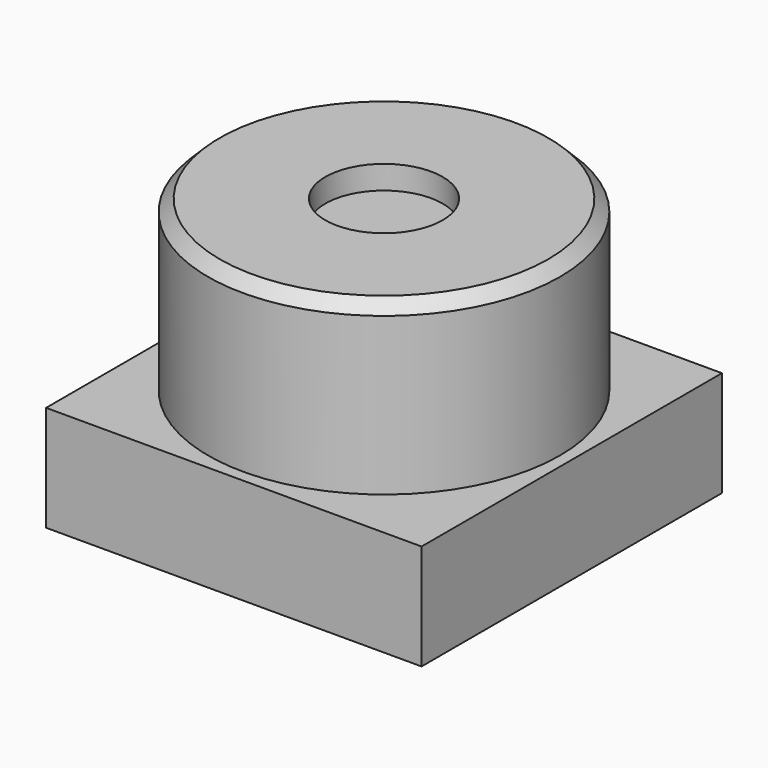
from build123d import *

# Parameters (mm, degrees)
SKETCH005_W     = 8
SKETCH005_H     = 8
PAD003_DEPTH    = 2.25
SKETCH006_R     = 3.75
PAD004_DEPTH    = 3.6
SKETCH007_R     = 1.25
POCKET001_DEPTH = 0.5
CHAMFER001_SIZE = 0.25


with BuildPart() as part:
    # Sketch005 (on Face1 of CopyThickness) → Pad003 (new body)
    with BuildSketch(Plane.XY.offset(3.5)):
        with Locations((0, 12.5)):
            Rectangle(SKETCH005_W, SKETCH005_H)
    extrude(amount=PAD003_DEPTH)

    # Sketch006 (on Face6 of Pad003) → Pad004 (join)
    with BuildSketch(Plane.XY.offset(5.75)):
        with Locations((0, 12.5)):
            Circle(SKETCH006_R)
    extrude(amount=PAD004_DEPTH)

    # Sketch007 (on Face8 of Pad004) → Pocket001 (cut)
    with BuildSketch(Plane.XY.offset(9.35)):
        with Locations((0, 12.5)):
            Circle(SKETCH007_R)
    extrude(amount=-POCKET001_DEPTH, mode=Mode.SUBTRACT)

    # Chamfer001
    chamfer001_edges = [part.edges().sort_by_distance(p)[0] for p in [
        (-3.75, 12.5, 9.35),
    ]]
    chamfer(chamfer001_edges, length=CHAMFER001_SIZE)


solid = part.part
